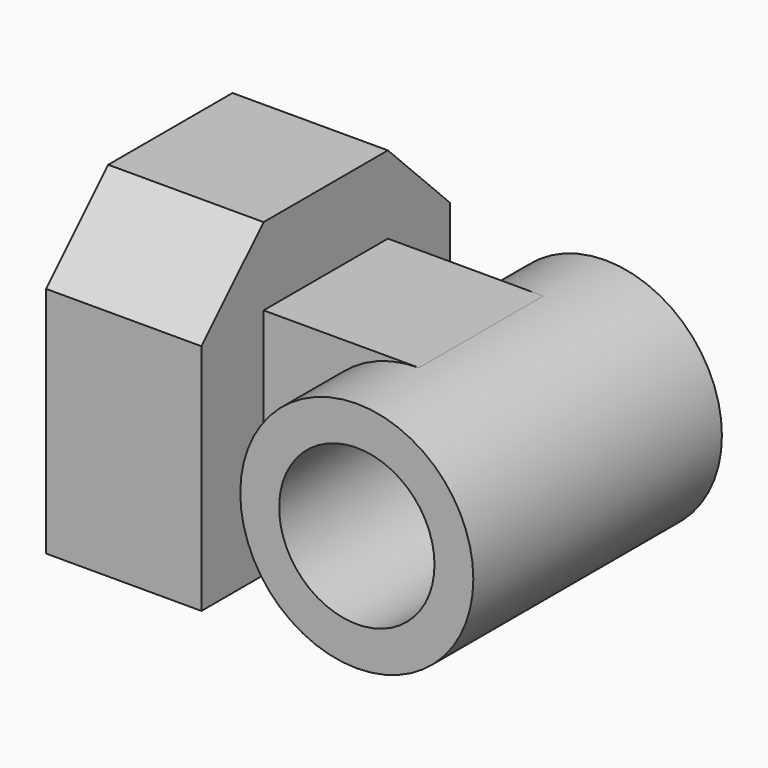
from build123d import *

# Parameters (mm, degrees)
F1_DEPTH = 12.7
F3_START = 6.35
F3_DEPTH = 12.7
F4_R     = 9.525
F4_R_2   = 6.35
F5_DEPTH = 25.4


with BuildPart() as f1:
    # F0 (on Right) → F1 (new body)
    with BuildSketch(Plane.YZ):
        Polygon((-25.4, 0), (0, 0), (0, 19.05), (-6.35, 25.4), (-19.05, 25.4), (-25.4, 19.05), align=None)
    extrude(amount=-F1_DEPTH)

    # F2 (on Front) → F3 (join)
    with BuildSketch(Plane.XZ.offset(F3_START)):
        with BuildLine():
            Line((0, 19.05), (0, 0))
            Line((0, 0), (12.7, 0))
            ThreePointArc((12.7, 0), (3.175, 9.525), (12.7, 19.05))
            Line((12.7, 19.05), (0, 19.05))
        make_face()
    extrude(amount=F3_DEPTH)

    # F4 (on Front) → F5 (join)
    with BuildSketch(Plane.XZ):
        with Locations((12.7, 9.525)):
            Circle(F4_R)
        with Locations((12.7, 9.525)):
            Circle(F4_R_2, mode=Mode.SUBTRACT)
    extrude(amount=F5_DEPTH)


solid = f1.part
